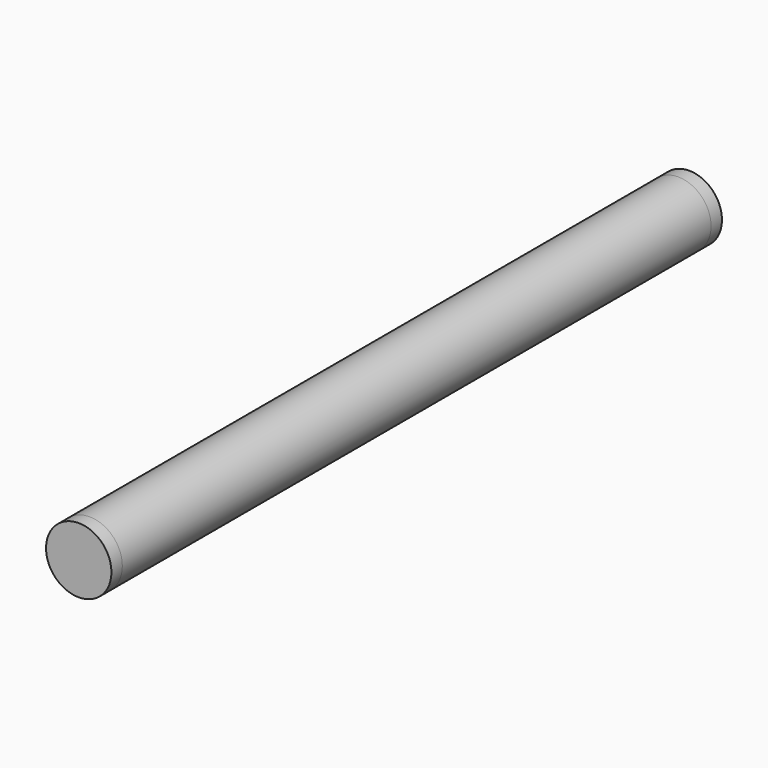
from build123d import *

# Parameters (mm, degrees)
F0_R     = 12
F0_R_2   = 10.25
F1_DEPTH = 270
F2_R     = 12
F3_DEPTH = 5
F4_R     = 12
F5_DEPTH = 5


with BuildPart() as f1:
    # F0 (on Front) → F1 (new body)
    with BuildSketch(Plane.XZ):
        Circle(F0_R)
        Circle(F0_R_2, mode=Mode.SUBTRACT)
    extrude(amount=F1_DEPTH)

    # F2 (on face) → F3 (join)
    with BuildSketch(Plane(origin=(0, 0, 0), x_dir=(-1, 0, 0), z_dir=(0, 1, 0))):
        Circle(F2_R)
    extrude(amount=F3_DEPTH)

    # F4 (on face) → F5 (join)
    with BuildSketch(Plane.XZ.offset(270)):
        Circle(F4_R)
    extrude(amount=F5_DEPTH)


solid = f1.part
